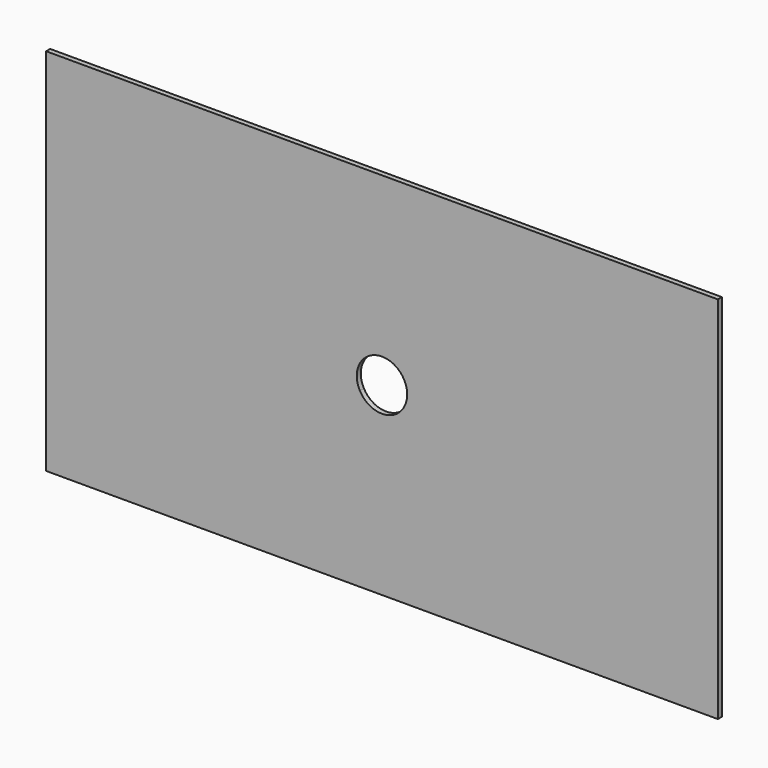
from build123d import *

# Parameters (mm, degrees)
F0_W     = 400
F0_H     = 220
F1_DEPTH = 3
F3_DEPTH = 35.56


with BuildPart() as f1:
    # F0 (on Front) → F1 (new body)
    with BuildSketch(Plane.XZ):
        with Locations((15.115904808, 19.7087159753)):
            Rectangle(F0_W, F0_H)
    extrude(amount=F1_DEPTH)

    # F2 (on face) → F3 (cut)
    with BuildSketch(Plane.XZ.offset(3)):
        with BuildLine():
            ThreePointArc((28.2591434382, 26.9374972219), (15.115904808, 34.7087159753), (1.9726661779, 26.9374972219))
            Line((1.9726661779, 26.9374972219), (15.115904808, 19.7087159753))
            Line((15.115904808, 19.7087159753), (28.2591434382, 26.9374972219))
        make_face()
        with BuildLine():
            Line((15.115904808, 19.7087159753), (1.9726661779, 12.4799347287))
            ThreePointArc((1.9726661779, 12.4799347287), (15.115904808, 4.7087159753), (28.2591434382, 12.4799347287))
            Line((28.2591434382, 12.4799347287), (15.115904808, 19.7087159753))
        make_face()
        with BuildLine():
            ThreePointArc((30.115904808, 19.7087159753), (29.6443007872, 23.4404327751), (28.2591434382, 26.9374972219))
            Line((28.2591434382, 26.9374972219), (15.115904808, 19.7087159753))
            Line((15.115904808, 19.7087159753), (28.2591434382, 12.4799347287))
            ThreePointArc((28.2591434382, 12.4799347287), (29.6443007872, 15.9769991755), (30.115904808, 19.7087159753))
        make_face()
        with BuildLine():
            Line((15.115904808, 19.7087159753), (1.9726661779, 26.9374972219))
            ThreePointArc((1.9726661779, 26.9374972219), (0.115904808, 19.7087159753), (1.9726661779, 12.4799347287))
            Line((1.9726661779, 12.4799347287), (15.115904808, 19.7087159753))
        make_face()
    extrude(amount=-F3_DEPTH, mode=Mode.SUBTRACT)


solid = f1.part
